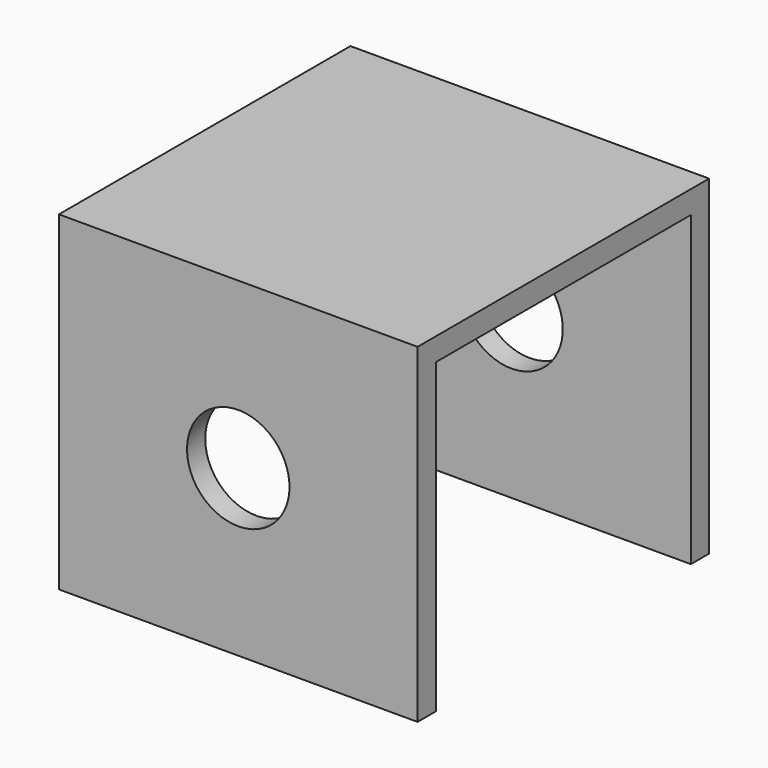
from build123d import *

# Parameters (mm, degrees)
F1_DEPTH = 50
F2_R     = 7.14375
F3_DEPTH = 50.801


with BuildPart() as f1:
    # F0 (on Right) → F1 (new body)
    with BuildSketch(Plane.YZ):
        Polygon((0, -42.8625), (0, 0), (44.45, 0), (44.45, -42.8625), (47.625, -42.8625), (47.625, 3.175), (-3.175, 3.175), (-3.175, -42.8625), align=None)
    extrude(amount=-F1_DEPTH)

    # F2 (on face) → F3 (cut, through all)
    with BuildSketch(Plane(origin=(0, 47.625, 0), x_dir=(-1, 0, 0), z_dir=(0, 1, 0))):
        with Locations((25, -19.84375)):
            Circle(F2_R)
    extrude(amount=-F3_DEPTH, mode=Mode.SUBTRACT)


solid = f1.part
